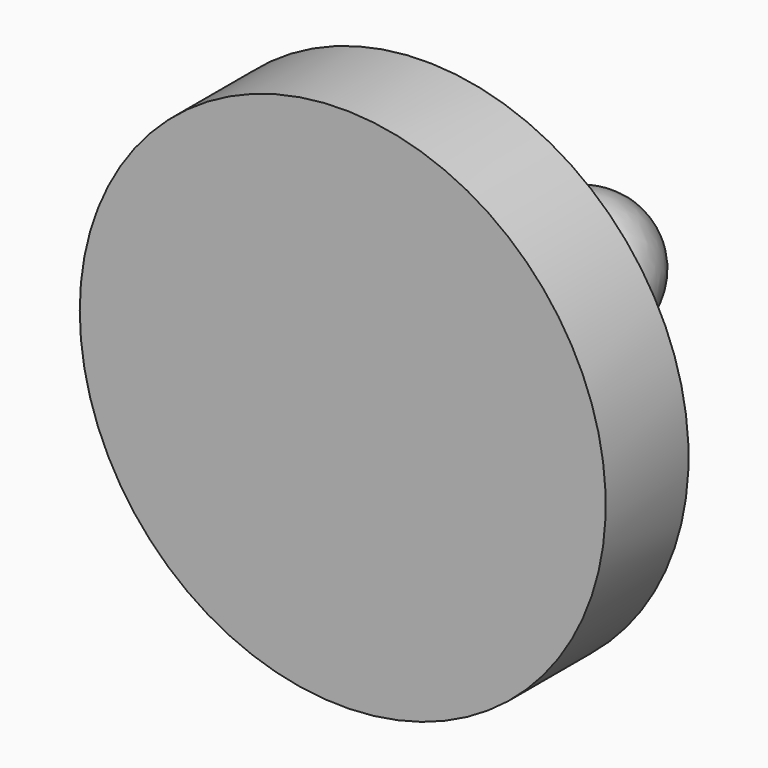
from build123d import *


with BuildPart() as f1:
    # F0 (on Top) → F1 (revolve)
    with BuildSketch(Plane.XY):
        Polygon((-25.4, 0), (0, 0), (0, 29.05), (-4.490128, 24.559872), (-19.05, 10), (-25.4, 10), align=None)
        with BuildLine():
            Line((-4.490128, 24.559872), (0, 29.05))
            Line((0, 29.05), (0, 35.4))
            ThreePointArc((0, 35.4), (-5.866635, 31.48004), (-4.490128, 24.559872))
        make_face()
    revolve(axis=Axis((0, 14.525, 0), (0, 1, 0)))


solid = f1.part
